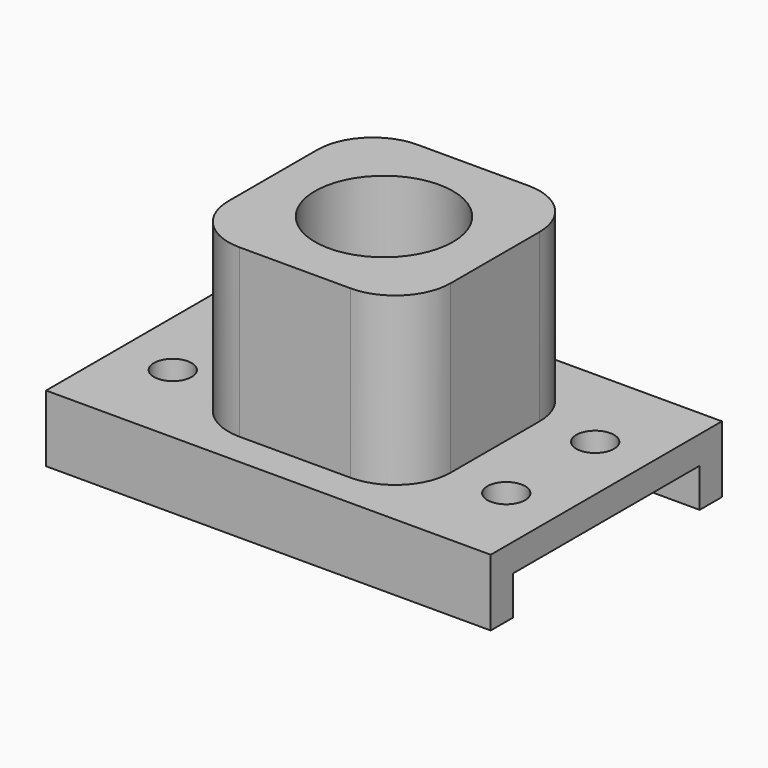
from build123d import *

# Parameters (mm, degrees)
SKETCH_W        = 40
SKETCH_H        = 26
PAD_DEPTH       = 6
SKETCH001_W     = 46
SKETCH001_H     = 21
POCKET_DEPTH    = 3.5
SKETCH002_R     = 1.7
POCKET001_DEPTH = 2.5
SKETCH003_W     = 20
SKETCH003_H     = 20
PAD001_DEPTH    = 15
SKETCH004_R     = 6.2
POCKET002_DEPTH = 15
FILLET_R        = 5


with BuildPart() as part:
    # Sketch → Pad (new body)
    with BuildSketch(Plane.XY):
        Rectangle(SKETCH_W, SKETCH_H)
    extrude(amount=PAD_DEPTH)

    # Sketch001 (on Face5 of Pad) → Pocket (cut)
    with BuildSketch(Plane(origin=(0, 0, 0), x_dir=(1, 0, 0), z_dir=(0, 0, -1))):
        Rectangle(SKETCH001_W, SKETCH001_H)
    extrude(amount=-POCKET_DEPTH, mode=Mode.SUBTRACT)

    # Sketch002 (on Face5 of Pocket) → Pocket001 (cut)
    with BuildSketch(Plane.XY.offset(6)):
        with Locations((-15, 5)):
            Circle(SKETCH002_R)
        with Locations((15, 5)):
            Circle(SKETCH002_R)
        with Locations((15, -5)):
            Circle(SKETCH002_R)
        with Locations((-15, -5)):
            Circle(SKETCH002_R)
    extrude(amount=-POCKET001_DEPTH, mode=Mode.SUBTRACT)

    # Sketch003 (on Face5 of Pocket001) → Pad001 (join)
    with BuildSketch(Plane.XY.offset(6)):
        Rectangle(SKETCH003_W, SKETCH003_H)
    extrude(amount=PAD001_DEPTH)

    # Sketch004 (on Face19 of Pad001) → Pocket002 (cut)
    with BuildSketch(Plane.XY.offset(21)):
        Circle(SKETCH004_R)
    extrude(amount=-POCKET002_DEPTH, mode=Mode.SUBTRACT)

    # Fillet
    fillet_edges = [part.edges().sort_by_distance(p)[0] for p in [
        (-10, -10, 13.5),
        (-10, 10, 13.5),
        (10, -10, 13.5),
        (10, 10, 13.5),
    ]]
    fillet(fillet_edges, radius=FILLET_R)


solid = part.part
